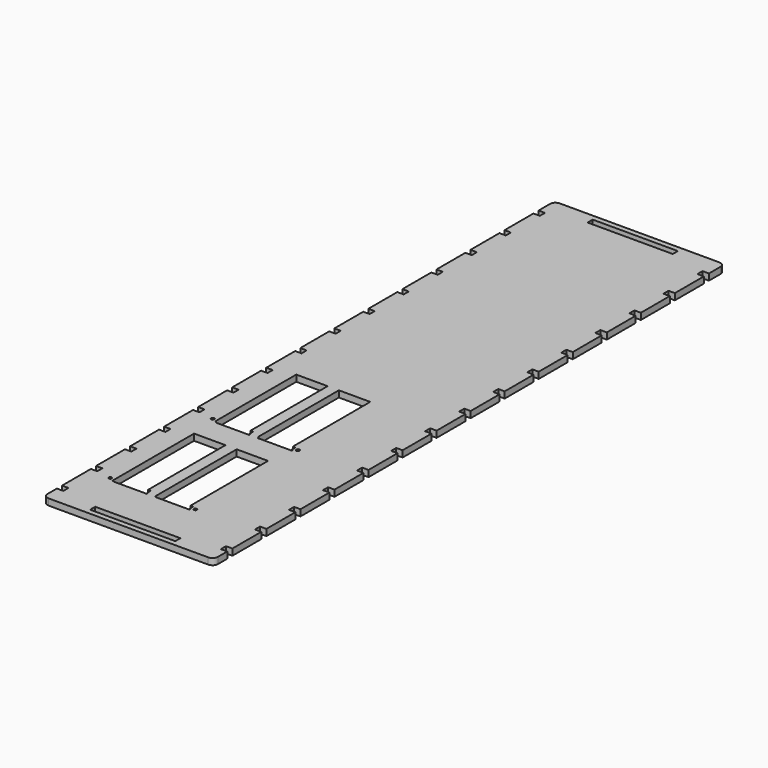
from build123d import *

# Parameters (mm, degrees)
F0_R     = 1.75
F0_R_2   = 1.981
F0_W     = 100
F0_H     = 7.5
F1_DEPTH = 7.5


with BuildPart() as f1:
    # F0 (on Top) → F1 (new body)
    with BuildSketch(Plane.XY):
        with BuildLine():
            Line((109.467205, 397.377165), (-77.832795, 397.377165))
            ThreePointArc((-77.832795, 397.377165), (-82.322924, 395.517293), (-84.182795, 391.027165))
            Line((-84.182795, 391.027165), (-84.182795, 374.177175))
            Line((-84.182795, 374.177175), (-76.682795, 374.177175))
            Line((-76.682795, 374.177175), (-76.682795, 366.677175))
            Line((-76.682795, 366.677175), (-84.182795, 366.677175))
            Line((-84.182795, 366.677175), (-84.182795, 324.227175))
            Line((-84.182795, 324.227175), (-76.682795, 324.227175))
            Line((-76.682795, 324.227175), (-76.682795, 316.727175))
            Line((-76.682795, 316.727175), (-84.182795, 316.727175))
            Line((-84.182795, 316.727175), (-84.182795, 274.277175))
            Line((-84.182795, 274.277175), (-76.682795, 274.277175))
            Line((-76.682795, 274.277175), (-76.682795, 266.777175))
            Line((-76.682795, 266.777175), (-84.182795, 266.777175))
            Line((-84.182795, 266.777175), (-84.182795, 224.327175))
            Line((-84.182795, 224.327175), (-76.682795, 224.327175))
            Line((-76.682795, 224.327175), (-76.682795, 216.827175))
            Line((-76.682795, 216.827175), (-84.182795, 216.827175))
            Line((-84.182795, 216.827175), (-84.182795, 174.377175))
            Line((-84.182795, 174.377175), (-76.682795, 174.377175))
            Line((-76.682795, 174.377175), (-76.682795, 166.877175))
            Line((-76.682795, 166.877175), (-84.182795, 166.877175))
            Line((-84.182795, 166.877175), (-84.182795, 124.427175))
            Line((-84.182795, 124.427175), (-76.682795, 124.427175))
            Line((-76.682795, 124.427175), (-76.682795, 116.927175))
            Line((-76.682795, 116.927175), (-84.182795, 116.927175))
            Line((-84.182795, 116.927175), (-84.182795, 74.477175))
            Line((-84.182795, 74.477175), (-76.682795, 74.477175))
            Line((-76.682795, 74.477175), (-76.682795, 66.977175))
            Line((-76.682795, 66.977175), (-84.182795, 66.977175))
            Line((-84.182795, 66.977175), (-84.182795, 24.527175))
            Line((-84.182795, 24.527175), (-76.682795, 24.527175))
            Line((-76.682795, 24.527175), (-76.682795, 17.027175))
            Line((-76.682795, 17.027175), (-84.182795, 17.027175))
            Line((-84.182795, 17.027175), (-84.182795, -25.422825))
            Line((-84.182795, -25.422825), (-76.682795, -25.422825))
            Line((-76.682795, -25.422825), (-76.682795, -32.922825))
            Line((-76.682795, -32.922825), (-84.182795, -32.922825))
            Line((-84.182795, -32.922825), (-84.182795, -75.372825))
            Line((-84.182795, -75.372825), (-76.682795, -75.372825))
            Line((-76.682795, -75.372825), (-76.682795, -82.872825))
            Line((-76.682795, -82.872825), (-84.182795, -82.872825))
            Line((-84.182795, -82.872825), (-84.182795, -125.322825))
            Line((-84.182795, -125.322825), (-76.682795, -125.322825))
            Line((-76.682795, -125.322825), (-76.682795, -132.822825))
            Line((-76.682795, -132.822825), (-84.182795, -132.822825))
            Line((-84.182795, -132.822825), (-84.182795, -175.272825))
            Line((-84.182795, -175.272825), (-76.682795, -175.272825))
            Line((-76.682795, -175.272825), (-76.682795, -182.772825))
            Line((-76.682795, -182.772825), (-84.182795, -182.772825))
            Line((-84.182795, -182.772825), (-84.182795, -225.222825))
            Line((-84.182795, -225.222825), (-76.682795, -225.222825))
            Line((-76.682795, -225.222825), (-76.682795, -232.722825))
            Line((-76.682795, -232.722825), (-84.182795, -232.722825))
            Line((-84.182795, -232.722825), (-84.182795, -275.172825))
            Line((-84.182795, -275.172825), (-76.682795, -275.172825))
            Line((-76.682795, -275.172825), (-76.682795, -282.672825))
            Line((-76.682795, -282.672825), (-84.182795, -282.672825))
            Line((-84.182795, -282.672825), (-84.182795, -325.122825))
            Line((-84.182795, -325.122825), (-76.682795, -325.122825))
            Line((-76.682795, -325.122825), (-76.682795, -332.622825))
            Line((-76.682795, -332.622825), (-84.182795, -332.622825))
            Line((-84.182795, -332.622825), (-84.182795, -346.272835))
            ThreePointArc((-84.182795, -346.272835), (-82.322924, -350.762964), (-77.832795, -352.622835))
            Line((-77.832795, -352.622835), (109.467205, -352.622835))
            ThreePointArc((109.467205, -352.622835), (113.957333, -350.762964), (115.817205, -346.272835))
            Line((115.817205, -346.272835), (115.817205, -332.622835))
            Line((115.817205, -332.622835), (108.317205, -332.622835))
            Line((108.317205, -332.622835), (108.317205, -325.122835))
            Line((108.317205, -325.122835), (115.817205, -325.122835))
            Line((115.817205, -325.122835), (115.817205, -282.672835))
            Line((115.817205, -282.672835), (108.317205, -282.672835))
            Line((108.317205, -282.672835), (108.317205, -275.172835))
            Line((108.317205, -275.172835), (115.817205, -275.172835))
            Line((115.817205, -275.172835), (115.817205, -232.722835))
            Line((115.817205, -232.722835), (108.317205, -232.722835))
            Line((108.317205, -232.722835), (108.317205, -225.222835))
            Line((108.317205, -225.222835), (115.817205, -225.222835))
            Line((115.817205, -225.222835), (115.817205, -182.772835))
            Line((115.817205, -182.772835), (108.317205, -182.772835))
            Line((108.317205, -182.772835), (108.317205, -175.272835))
            Line((108.317205, -175.272835), (115.817205, -175.272835))
            Line((115.817205, -175.272835), (115.817205, -132.822835))
            Line((115.817205, -132.822835), (108.317205, -132.822835))
            Line((108.317205, -132.822835), (108.317205, -125.322835))
            Line((108.317205, -125.322835), (115.817205, -125.322835))
            Line((115.817205, -125.322835), (115.817205, -82.872835))
            Line((115.817205, -82.872835), (108.317205, -82.872835))
            Line((108.317205, -82.872835), (108.317205, -75.372835))
            Line((108.317205, -75.372835), (115.817205, -75.372835))
            Line((115.817205, -75.372835), (115.817205, -32.922835))
            Line((115.817205, -32.922835), (108.317205, -32.922835))
            Line((108.317205, -32.922835), (108.317205, -25.422835))
            Line((108.317205, -25.422835), (115.817205, -25.422835))
            Line((115.817205, -25.422835), (115.817205, 17.027165))
            Line((115.817205, 17.027165), (108.317205, 17.027165))
            Line((108.317205, 17.027165), (108.317205, 24.527165))
            Line((108.317205, 24.527165), (115.817205, 24.527165))
            Line((115.817205, 24.527165), (115.817205, 66.977165))
            Line((115.817205, 66.977165), (108.317205, 66.977165))
            Line((108.317205, 66.977165), (108.317205, 74.477165))
            Line((108.317205, 74.477165), (115.817205, 74.477165))
            Line((115.817205, 74.477165), (115.817205, 116.927165))
            Line((115.817205, 116.927165), (108.317205, 116.927165))
            Line((108.317205, 116.927165), (108.317205, 124.427165))
            Line((108.317205, 124.427165), (115.817205, 124.427165))
            Line((115.817205, 124.427165), (115.817205, 166.877165))
            Line((115.817205, 166.877165), (108.317205, 166.877165))
            Line((108.317205, 166.877165), (108.317205, 174.377165))
            Line((108.317205, 174.377165), (115.817205, 174.377165))
            Line((115.817205, 174.377165), (115.817205, 216.827165))
            Line((115.817205, 216.827165), (108.317205, 216.827165))
            Line((108.317205, 216.827165), (108.317205, 224.327165))
            Line((108.317205, 224.327165), (115.817205, 224.327165))
            Line((115.817205, 224.327165), (115.817205, 266.777165))
            Line((115.817205, 266.777165), (108.317205, 266.777165))
            Line((108.317205, 266.777165), (108.317205, 274.277165))
            Line((108.317205, 274.277165), (115.817205, 274.277165))
            Line((115.817205, 274.277165), (115.817205, 316.727165))
            Line((115.817205, 316.727165), (108.317205, 316.727165))
            Line((108.317205, 316.727165), (108.317205, 324.227165))
            Line((108.317205, 324.227165), (115.817205, 324.227165))
            Line((115.817205, 324.227165), (115.817205, 366.677165))
            Line((115.817205, 366.677165), (108.317205, 366.677165))
            Line((108.317205, 366.677165), (108.317205, 374.177165))
            Line((108.317205, 374.177165), (115.817205, 374.177165))
            Line((115.817205, 374.177165), (115.817205, 391.027165))
            ThreePointArc((115.817205, 391.027165), (113.957333, 395.517293), (109.467205, 397.377165))
        make_face()
        with Locations((-59.182573, -285.634338)):
            Circle(F0_R, mode=Mode.SUBTRACT)
        Polygon((-48.162773, -168.857838), (-41.787373, -168.857838), (-29.747773, -168.857838), (-23.372373, -168.857838), (-17.352573, -168.857838), (-17.352573, -180.237038), (-17.352573, -282.395838), (-14.177573, -282.395838), (-14.177573, -284.935838), (-14.177573, -286.586838), (-14.177573, -288.009238), (-13.177573, -288.009238), (-13.177573, -288.872838), (-13.177573, -289.372838), (-14.177573, -289.372838), (-32.592573, -289.372838), (-33.227573, -289.372838), (-51.642573, -289.372838), (-52.642573, -289.372838), (-52.642573, -288.872838), (-54.182573, -288.872838), (-54.182573, -282.395838), (-54.182573, -180.237038), (-54.182573, -168.857838), align=None, mode=Mode.SUBTRACT)
        with Locations((-59.182573, -135.202538)):
            Circle(F0_R_2, mode=Mode.SUBTRACT)
        Polygon((-52.642573, -138.872838), (-52.642573, -138.009238), (-54.182573, -138.009238), (-54.182573, -132.395838), (-54.182573, -30.237038), (-54.182573, -18.857838), (-48.162773, -18.857838), (-41.787373, -18.857838), (-29.747773, -18.857838), (-23.372373, -18.857838), (-17.352573, -18.857838), (-17.352573, -30.237038), (-17.352573, -132.395838), (-14.177573, -132.395838), (-14.177573, -134.935838), (-14.177573, -136.586838), (-14.177573, -138.009238), (-13.177573, -138.009238), (-13.177573, -138.872838), (-13.177573, -139.372838), (-14.177573, -139.372838), (-32.592573, -139.372838), (-33.227573, -139.372838), (-51.642573, -139.372838), (-52.642573, -139.372838), align=None, mode=Mode.SUBTRACT)
        with Locations((15.817205, -342.622835)):
            Rectangle(F0_W, F0_H, mode=Mode.SUBTRACT)
        with Locations((40.822427, -285.634338)):
            Circle(F0_R, mode=Mode.SUBTRACT)
        Polygon((-4.182573, -288.872838), (-4.182573, -282.395838), (-4.182573, -180.237038), (-4.182573, -168.857838), (1.837227, -168.857838), (8.212627, -168.857838), (20.252227, -168.857838), (26.627627, -168.857838), (32.647427, -168.857838), (32.647427, -180.237038), (32.647427, -282.395838), (35.822427, -282.395838), (35.822427, -284.935838), (35.822427, -286.586838), (35.822427, -288.009238), (36.822427, -288.009238), (36.822427, -288.872838), (36.822427, -289.372838), (35.822427, -289.372838), (16.772427, -289.372838), (-1.642573, -289.372838), (-2.642573, -289.372838), (-2.642573, -288.872838), align=None, mode=Mode.SUBTRACT)
        Polygon((32.647427, -18.857838), (32.647427, -30.237038), (32.647427, -132.395838), (35.822427, -132.395838), (35.822427, -134.935838), (35.822427, -136.586838), (35.822427, -138.009238), (36.822427, -138.009238), (36.822427, -138.872838), (36.822427, -139.372838), (35.822427, -139.372838), (17.407427, -139.372838), (16.772427, -139.372838), (-1.642573, -139.372838), (-2.642573, -139.372838), (-2.642573, -138.872838), (-2.642573, -138.009238), (-4.182573, -138.009238), (-4.182573, -132.395838), (-4.182573, -30.237038), (-4.182573, -18.857838), (1.837227, -18.857838), (8.212627, -18.857838), (20.252227, -18.857838), (26.627627, -18.857838), align=None, mode=Mode.SUBTRACT)
        with Locations((40.822427, -135.202538)):
            Circle(F0_R_2, mode=Mode.SUBTRACT)
        with Locations((15.817205, 387.377165)):
            Rectangle(F0_W, F0_H, mode=Mode.SUBTRACT)
    extrude(amount=F1_DEPTH)


solid = f1.part
